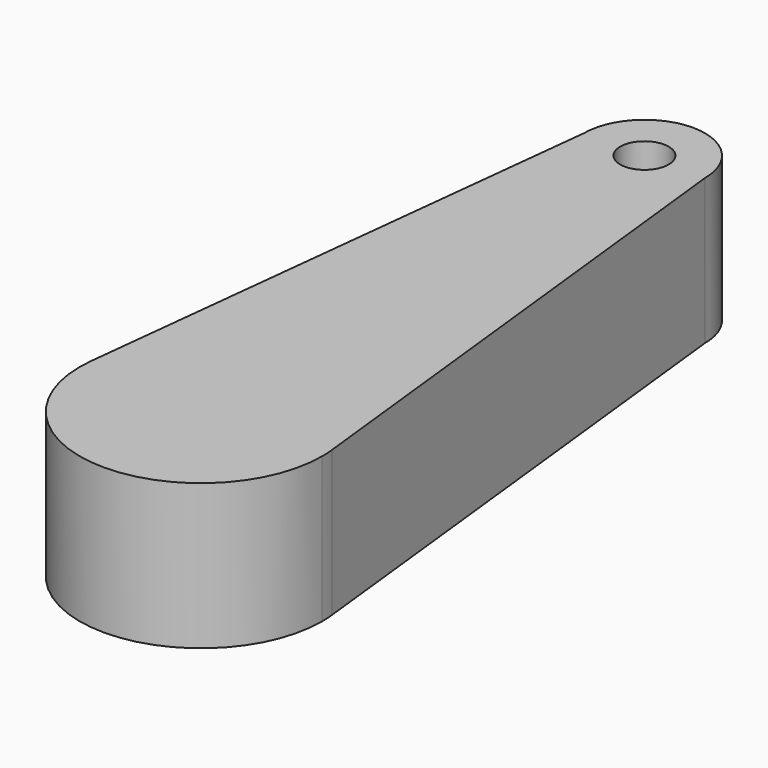
from build123d import *

# Parameters (mm, degrees)
F0_R     = 2
F1_DEPTH = 12


with BuildPart() as f1:
    # F0 (on Top) → F1 (new body)
    with BuildSketch(Plane.XY):
        with BuildLine():
            ThreePointArc((-9.939430542, 1.0989633757), (-0.5503156277, -9.9848461535), (10, 0))
            ThreePointArc((10, 0), (9.9848461508, 0.5503156774), (9.939430531, 1.0989634746))
            ThreePointArc((9.939430531, 1.0989634746), (-4.98e-08, 10), (-9.939430542, 1.0989633757))
        make_face()
        with BuildLine():
            ThreePointArc((-5, 45.7729995251), (0, 40.7729995251), (5, 45.7729995251))
            ThreePointArc((5, 45.7729995251), (0, 50.7729995251), (-5, 45.7729995251))
        make_face()
        with Locations((0, 45.7729995251)):
            Circle(F0_R, mode=Mode.SUBTRACT)
        with BuildLine():
            ThreePointArc((-9.939430542, 1.0989633757), (-4.98e-08, 10), (9.939430531, 1.0989634746))
            Line((9.939430531, 1.0989634746), (5, 45.7729995251))
            ThreePointArc((5, 45.7729995251), (0, 40.7729995251), (-5, 45.7729995251))
            Line((-5, 45.7729995251), (-9.939430542, 1.0989633757))
        make_face()
    extrude(amount=F1_DEPTH)


solid = f1.part
